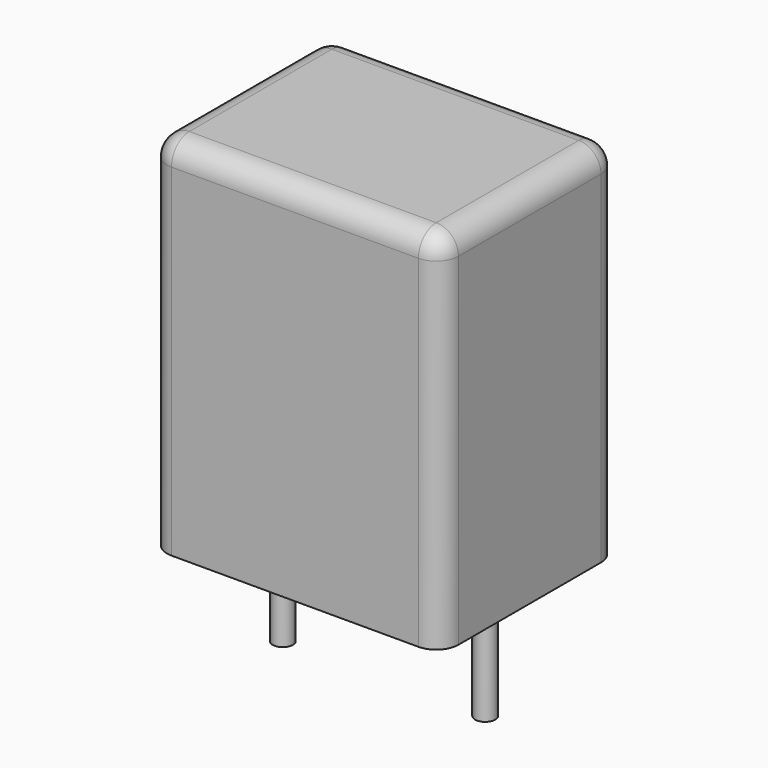
from build123d import *

# Parameters (mm, degrees)
SKETCH_W     = 7.2
SKETCH_H     = 5.5
PAD_DEPTH    = 9
FILLET_R     = 0.55
SKETCH001_R  = 0.25
PAD001_DEPTH = 3.2


with BuildPart() as fillet_body:
    # Sketch → Pad (new body)
    with BuildSketch(Plane.XY.offset(0.1)):
        with Locations((2.5, 0)):
            Rectangle(SKETCH_W, SKETCH_H)
    extrude(amount=PAD_DEPTH)

    # Fillet
    fillet_edges = [fillet_body.edges().sort_by_distance(p)[0] for p in [
        (-1.1, 0, 9.1),
        (-1.1, -2.75, 4.6),
        (2.5, -2.75, 9.1),
        (6.1, -2.75, 4.6),
        (6.1, 0, 9.1),
        (6.1, 2.75, 4.6),
        (2.5, 2.75, 9.1),
        (-1.1, 2.75, 4.6),
    ]]
    fillet(fillet_edges, radius=FILLET_R)


with BuildPart() as pad001:
    # Sketch001 → Pad001 (new body)
    with BuildSketch(Plane.XY.offset(0.5)):
        Circle(SKETCH001_R)
        with Locations((5, 0)):
            Circle(SKETCH001_R)
    extrude(amount=-PAD001_DEPTH)


solid = Compound([fillet_body.part, pad001.part])
